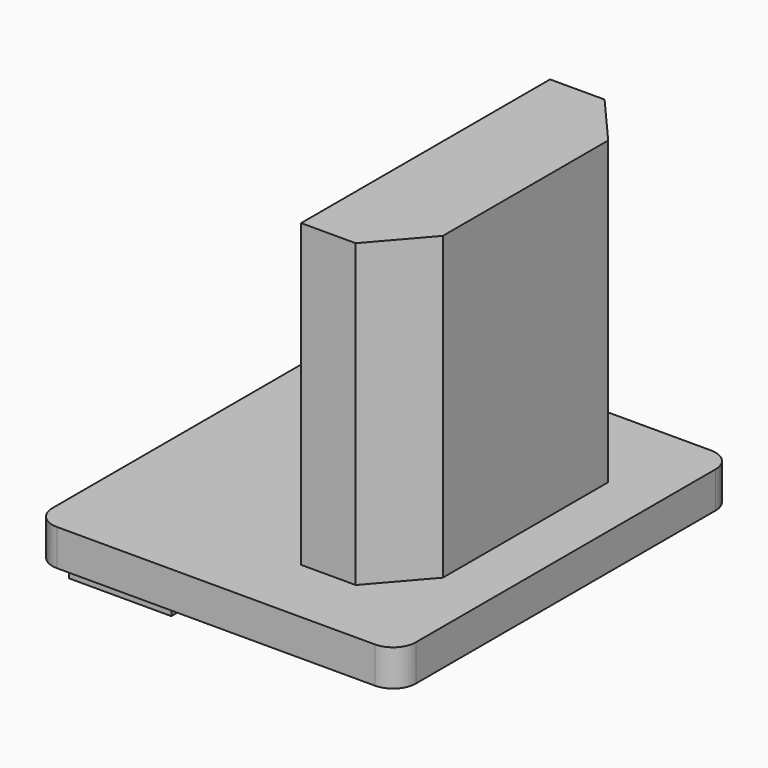
from build123d import *

# Parameters (mm, degrees)
SKETCH_W     = 16
SKETCH_H     = 18.5
PAD_DEPTH    = 1.6
FILLET_R     = 1
SKETCH001_W  = 4.4
SKETCH001_H  = 13.7
PAD001_DEPTH = 13.25
POCKET_DEPTH = 13.25
SKETCH003_W  = 4.5
SKETCH003_H  = 14.66
PAD002_DEPTH = 1.5


with BuildPart() as part:
    # Sketch → Pad (new body)
    with BuildSketch(Plane.XY):
        Rectangle(SKETCH_W, SKETCH_H)
    extrude(amount=PAD_DEPTH)

    # Fillet
    fillet_edges = [part.edges().sort_by_distance(p)[0] for p in [
        (8, -9.25, 0.8),
        (-8, -9.25, 0.8),
        (-8, 9.25, 0.8),
        (8, 9.25, 0.8),
    ]]
    fillet(fillet_edges, radius=FILLET_R)

    # Sketch001 (on Face5 of Fillet) → Pad001 (join)
    with BuildSketch(Plane.XY.offset(1.6)):
        with Locations((3.52, 0.64)):
            Rectangle(SKETCH001_W, SKETCH001_H)
    extrude(amount=PAD001_DEPTH)

    # Sketch002 (on Face15 of Pad001) → Pocket (cut)
    with BuildSketch(Plane.XY.offset(14.85)):
        Polygon((5.72, 7.49), (5.72, 5.19), (3.72, 7.49), align=None)
        Polygon((5.72, -3.91), (5.72, -6.21), (3.72, -6.21), align=None)
    extrude(amount=-POCKET_DEPTH, mode=Mode.SUBTRACT)

    # Sketch003 (on Face2 of Pocket) → Pad002 (join)
    with BuildSketch(Plane(origin=(0, 0, 0), x_dir=(1, 0, 0), z_dir=(0, 0, -1))):
        with Locations((-5.75, 0)):
            Rectangle(SKETCH003_W, SKETCH003_H)
    extrude(amount=PAD002_DEPTH)


solid = part.part
